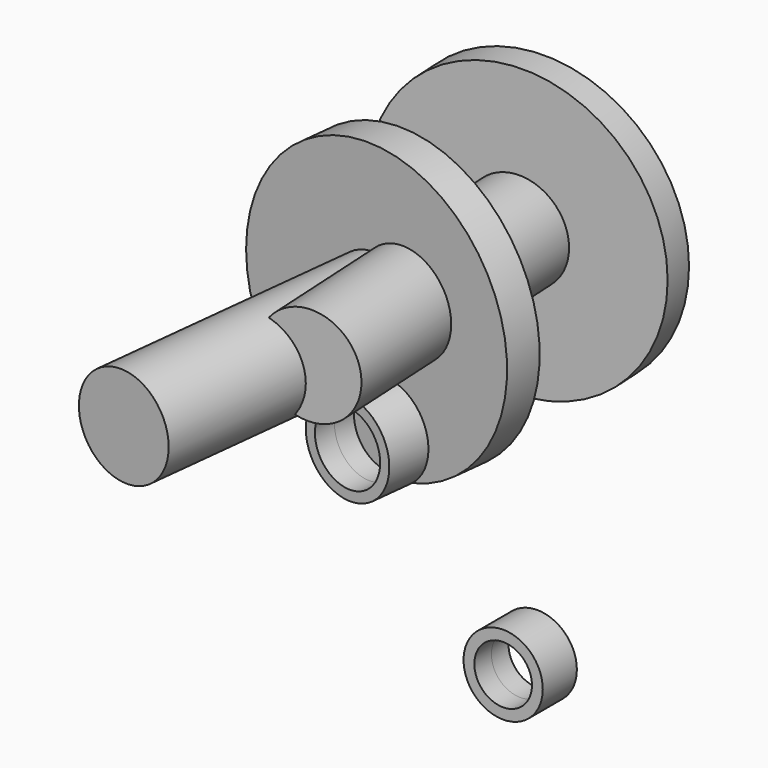
from build123d import *

# Parameters (mm, degrees)
F2_R           = 27.5
F2_R_2         = 20
F3_DEPTH       = 14.8
F3_DEPTH_BACK  = 14.8
F7_R           = 30
F7_R_2         = 22
F8_DEPTH       = 12.5
F8_DEPTH_BACK  = 12.5
F12_R          = 32
F12_R_2        = 25
F13_DEPTH      = 15
F13_DEPTH_BACK = 15
F14_R          = 100
F15_DEPTH      = 20
F16_R          = 34.4
F17_DEPTH      = 194
F18_R          = 100
F19_DEPTH      = 25
F20_R          = 34.4
F21_DEPTH      = 194


with BuildPart() as f3:
    # F2 (on offset) → F3 (new body, two sides)
    with BuildSketch(Plane.XZ.offset(-36.2)) as f3_sk:
        with Locations((49.2, -100.9)):
            Circle(F2_R)
        with Locations((49.2, -100.9)):
            Circle(F2_R_2, mode=Mode.SUBTRACT)
    extrude(amount=F3_DEPTH)
    extrude(f3_sk.sketch, amount=-F3_DEPTH_BACK)


with BuildPart() as f8:
    # F7 (on face) → F8 (new body, two sides)
    with BuildSketch(Plane(origin=(-3.1361998753, 56.0950443833, 0), x_dir=(-0.9984407642, -0.055821505, 0), z_dir=(-0.055821505, 0.9984407642, 0))) as f8_sk:
        with Locations((-55.6229291387, 100.7)):
            Circle(F7_R)
        with Locations((-55.6229291387, 100.7)):
            Circle(F7_R_2, mode=Mode.SUBTRACT)
    extrude(amount=F8_DEPTH)
    extrude(f8_sk.sketch, amount=-F8_DEPTH_BACK)


with BuildPart() as f13:
    # F12 (on face) → F13 (new body, two sides)
    with BuildSketch(Plane(origin=(-9.3678511125, -84.8529338709, 0), x_dir=(-0.9939609555, 0.1097343111, 0), z_dir=(0.1097343111, 0.9939609555, 0))) as f13_sk:
        with Locations((-54.1951379648, 87.3)):
            Circle(F12_R)
        with Locations((-54.1951379648, 87.3)):
            Circle(F12_R_2, mode=Mode.SUBTRACT)
    extrude(amount=F13_DEPTH)
    extrude(f13_sk.sketch, amount=-F13_DEPTH_BACK)


with BuildPart() as f15:
    # F14 (on face) → F15 (new body)
    with BuildSketch(Plane(origin=(-2.4384310629, 43.6145348311, 0), x_dir=(0.9984407642, 0.055821505, 0), z_dir=(0.055821505, -0.9984407642, 0))):
        with Locations((56.2, 170)):
            Circle(F14_R)
    extrude(amount=F15_DEPTH)

    # F16 (on face) → F17 (join)
    with BuildSketch(Plane(origin=(-1.322000963, 23.6457195474, 0), x_dir=(0.9984407642, 0.055821505, 0), z_dir=(0.055821505, -0.9984407642, 0))):
        with Locations((56.2, 170)):
            Circle(F16_R)
    extrude(amount=F17_DEPTH)


with BuildPart() as f19:
    # F18 (on face) → F19 (new body)
    with BuildSketch(Plane(origin=(-7.7218364462, -69.9435195391, 0), x_dir=(-0.9939609555, 0.1097343111, 0), z_dir=(0.1097343111, 0.9939609555, 0))):
        with Locations((-46.4951379648, 158.1)):
            Circle(F18_R)
    extrude(amount=F19_DEPTH)

    # F20 (on face) → F21 (join)
    with BuildSketch(Plane(origin=(-7.7218364462, -69.9435195391, 0), x_dir=(0.9939609555, -0.1097343111, 0), z_dir=(-0.1097343111, -0.9939609555, 0))):
        with Locations((46.4951379648, 158.1)):
            Circle(F20_R)
    extrude(amount=F21_DEPTH)


solid = Compound([f3.part, f8.part, f13.part, f15.part, f19.part])
